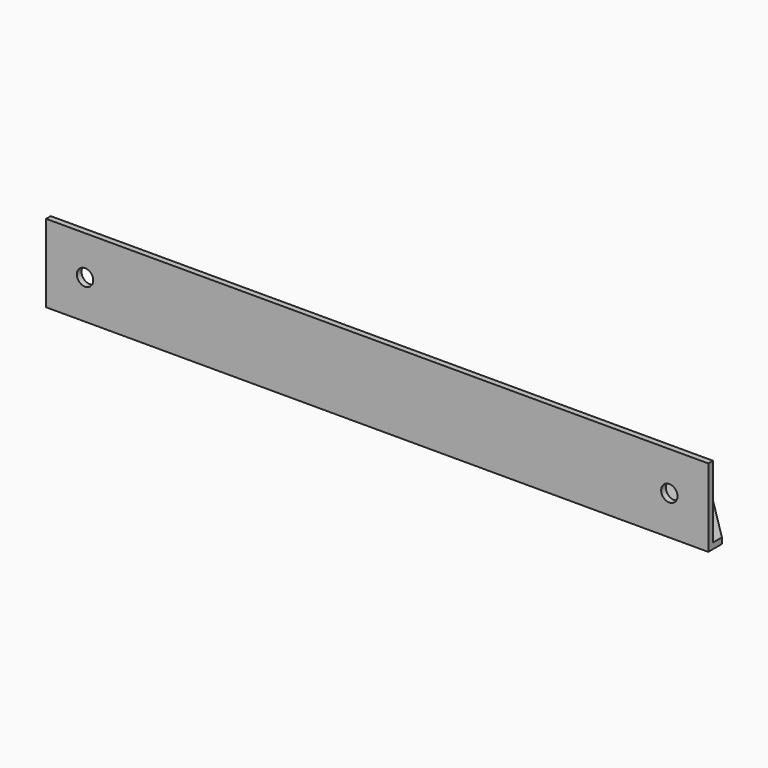
from build123d import *

# Parameters (mm, degrees)
PAD_DEPTH     = 85
SKETCH002_R   = 2.1
HOLE_DEPTH    = 20.001
SKETCH003_R   = 2.1
HOLE001_DEPTH = 20.001
POCKET_DEPTH  = 364.674759


with BuildPart() as part:
    # Sketch → Pad (new body, symmetric)
    with BuildSketch(Plane.YZ):
        Polygon((0, 0), (20, 0), (20, 1.5), (1.5, 1.5), (1.5, 20), (0, 20), align=None)
    extrude(amount=PAD_DEPTH, both=True)

    # Sketch002 → Hole (cut, through all)
    with BuildSketch(Plane.XZ):
        with Locations((-75, 10)):
            Circle(SKETCH002_R)
        with Locations((75, 10)):
            Circle(SKETCH002_R)
    extrude(amount=-HOLE_DEPTH, mode=Mode.SUBTRACT)

    # Sketch003 → Hole001 (cut, through all)
    with BuildSketch(Plane.XY):
        with Locations((-70, 10)):
            Circle(SKETCH003_R)
        with Locations((70, 10)):
            Circle(SKETCH003_R)
    extrude(amount=HOLE001_DEPTH, mode=Mode.SUBTRACT)

    # Sketch004 → Pocket (cut, through all)
    with BuildSketch(Plane.XY):
        Polygon((-85, 4.377634), (-49.377634, 40), (-85, 40), align=None)
    pocket = extrude(amount=POCKET_DEPTH, mode=Mode.SUBTRACT)

    # Mirrored: Pocket across YZ
    add(pocket.mirror(Plane.YZ), mode=Mode.SUBTRACT)


solid = part.part
